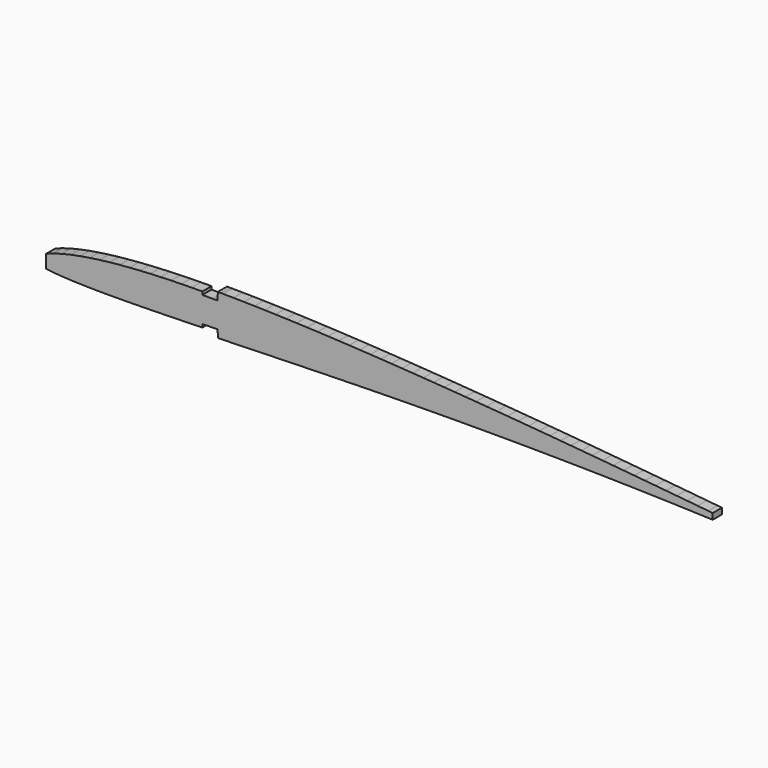
from build123d import *

# Parameters (mm, degrees)
F1_DEPTH = 1.5


with BuildPart() as f1:
    # F0 (on Front) → F1 (new body)
    with BuildSketch(Plane.XZ):
        Polygon((42.633343, -2.49563), (43.272484, -2.519707), (43.272484, -1.742308), (42.69796, -1.684938), (41.328284, -1.549762), (39.958285, -1.415982), (38.587682, -1.283293), (37.217047, -1.151804), (35.8462, -1.021412), (34.47504, -0.892116), (33.104072, -0.763823), (31.732882, -0.636727), (30.361783, -0.510732), (28.990562, -0.385836), (27.61952, -0.262443), (26.248371, -0.140148), (24.877293, -0.019353), (23.506195, 0.10004), (22.135176, 0.217934), (20.764144, 0.334327), (19.39309, 0.44902), (18.022108, 0.562112), (16.650999, 0.673405), (15.279969, 0.782998), (13.909014, 0.890788), (12.537939, 0.996481), (11.166931, 1.100372), (9.795887, 1.201963), (8.425023, 1.301653), (7.05413, 1.398942), (5.683203, 1.494032), (4.312542, 1.586517), (2.941846, 1.676703), (1.571408, 1.764085), (0.200941, 1.848667), (-1.16917, 1.930444), (-2.539126, 2.008918), (-3.908919, 2.08429), (-5.278373, 2.156057), (-6.647362, 2.224318), (-8.016013, 2.288373), (-9.384124, 2.34842), (-10.751789, 2.403962), (-12.118831, 2.454594), (-13.485133, 2.500115), (-14.850716, 2.539926), (-16.215481, 2.573926), (-17.579134, 2.601408), (-18.941783, 2.622078), (-20.303227, 2.63533), (-20.584685, 2.636391), (-20.983679, 2.637896), (-20.986194, 1.637899), (-21.663723, 1.640454), (-22.984685, 1.637154), (-22.984685, 2.037155), (-23.017754, 2.037072), (-24.3697, 2.024193), (-25.718667, 2.001218), (-27.064375, 1.966956), (-28.406277, 1.920413), (-29.743588, 1.860604), (-31.075309, 1.785746), (-32.400583, 1.694354), (-33.718012, 1.584864), (-35.025475, 1.45502), (-36.320133, 1.302504), (-37.597337, 1.124029), (-38.85176, 0.91599), (-40.074441, 0.67423), (-41.250641, 0.394269), (-42.357252, 0.072427), (-43.272483, -0.259564), (-43.272483, -1.973716), (-42.217361, -2.090856), (-40.969827, -2.182832), (-39.676941, -2.245), (-38.357821, -2.284522), (-37.022666, -2.306992), (-35.677446, -2.316059), (-34.324731, -2.314553), (-32.96632, -2.304531), (-31.603709, -2.287765), (-30.237914, -2.265637), (-28.869339, -2.23904), (-27.49865, -2.208962), (-26.126236, -2.1761), (-24.752033, -2.141054), (-23.376672, -2.104415), (-22.984685, -2.093671), (-22.984685, -1.693521), (-22.011267, -1.66684), (-20.995926, -1.638295), (-20.967824, -2.637901), (-20.605853, -2.627724), (-19.227691, -2.5887), (-17.848918, -2.549284), (-16.470151, -2.509968), (-15.091682, -2.470748), (-13.713622, -2.432022), (-12.336069, -2.39379), (-10.958819, -2.356253), (-9.581993, -2.319811), (-8.205572, -2.284264), (-6.829578, -2.25011), (-5.453898, -2.217453), (-4.078642, -2.186389), (-2.703715, -2.157122), (-1.329006, -2.129952), (0.04557, -2.10458), (1.420015, -2.081506), (2.794232, -2.06063), (4.168418, -2.042053), (5.542473, -2.025775), (6.916498, -2.011696), (8.290479, -2.000218), (9.664437, -1.991039), (11.038461, -1.984261), (12.412351, -1.979982), (13.786304, -1.978103), (15.160229, -1.978625), (16.534212, -1.981747), (17.908073, -1.987169), (19.28209, -1.995092), (20.656078, -2.005415), (22.030035, -2.018038), (23.404062, -2.033263), (24.777953, -2.050686), (26.15201, -2.070511), (27.525934, -2.092734), (28.899833, -2.117358), (30.273694, -2.144181), (31.64752, -2.173504), (33.021118, -2.205124), (34.394681, -2.239244), (35.768113, -2.275662), (37.141517, -2.31468), (38.514666, -2.356195), (39.887705, -2.400108), (41.260595, -2.44662), align=None)
    extrude(amount=F1_DEPTH)


solid = f1.part
